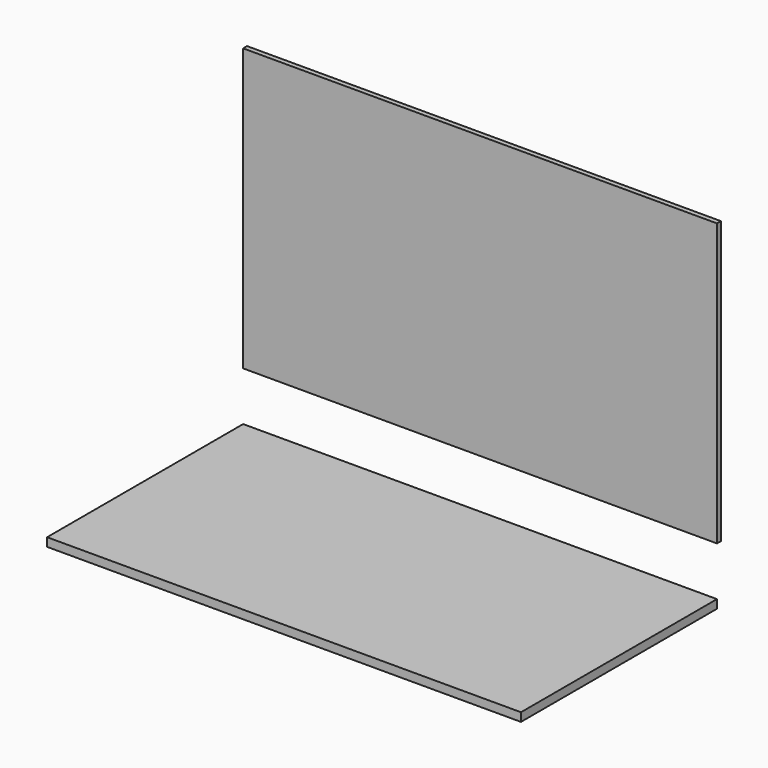
from build123d import *

# Parameters (mm, degrees)
F0_W     = 967
F0_H     = 575
F1_DEPTH = 10
F3_W     = 967
F3_H     = 500
F4_DEPTH = 17.4


with BuildPart() as f1:
    # F0 (on Front) → F1 (new body)
    with BuildSketch(Plane.XZ):
        with Locations((483.5, 287.5)):
            Rectangle(F0_W, F0_H)
    extrude(amount=-F1_DEPTH)


with BuildPart() as f4:
    # F3 (on offset) → F4 (new body)
    with BuildSketch(Plane.XY.offset(-100)):
        with Locations((483.5, -250)):
            Rectangle(F3_W, F3_H)
    extrude(amount=-F4_DEPTH)


solid = Compound([f1.part, f4.part])
